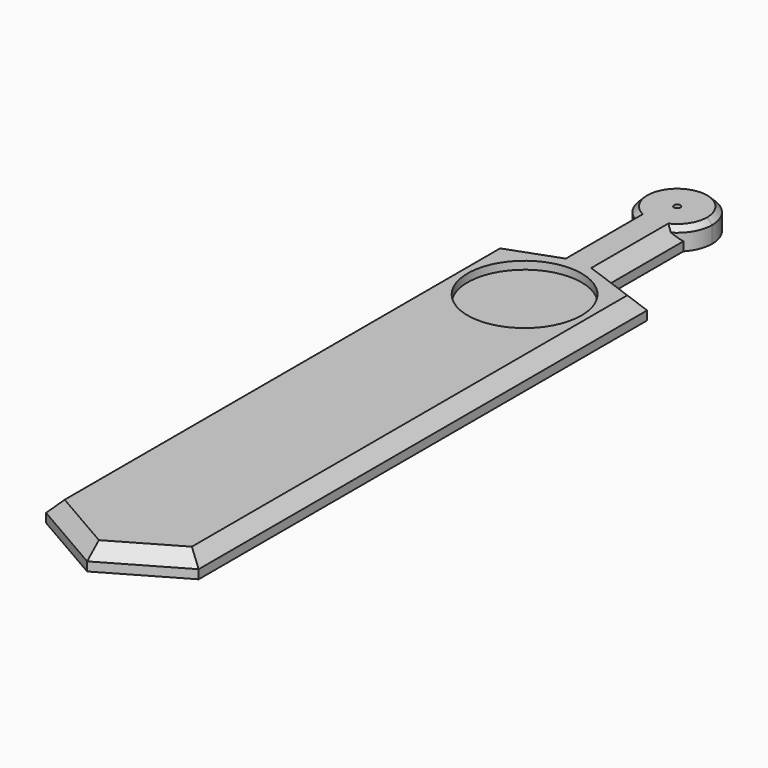
from build123d import *

# Parameters (mm, degrees)
F1_DEPTH = 21.59
F2_R     = 56.896
F3_DEPTH = 7.874
F4_R     = 5.08
F5_DEPTH = 13.717
F6_SIZE  = 12.7
F7_R     = 3.175
F8_DEPTH = 21.591
F9_SIZE  = 5.08


with BuildPart() as f1:
    # F0 (on Top) → F1 (new body)
    with BuildSketch(Plane.XY):
        with BuildLine():
            Line((25.4, -23.970724332), (25.4, 0))
            ThreePointArc((25.4, 0), (0, -25.4), (-25.4, 0))
            Line((-25.4, 0), (-25.4, -23.970724332))
            ThreePointArc((-25.4, -23.970724332), (0, -34.925), (25.4, -23.970724332))
        make_face()
        with BuildLine():
            Line((25.4, -114.3), (25.4, -23.970724332))
            ThreePointArc((25.4, -23.970724332), (0, -34.925), (-25.4, -23.970724332))
            Line((-25.4, -23.970724332), (-25.4, -114.3))
            Line((-25.4, -114.3), (-76.2, -132.7896879007))
            Line((-76.2, -132.7896879007), (-76.2, -692.6059094878))
            Line((-76.2, -692.6059094878), (0, -736.6))
            Line((0, -736.6), (76.2, -692.6059094878))
            Line((76.2, -692.6059094878), (76.2, -132.7896879007))
            Line((76.2, -132.7896879007), (25.4, -114.3))
        make_face()
        with BuildLine():
            ThreePointArc((-25.4, 0), (0, -25.4), (25.4, 0))
            ThreePointArc((25.4, 0), (0, 25.4), (-25.4, 0))
        make_face()
        with BuildLine():
            ThreePointArc((-25.4, 0), (0, 25.4), (25.4, 0))
            Line((25.4, 0), (25.4, -23.970724332))
            ThreePointArc((25.4, -23.970724332), (32.4565141767, -12.8969109674), (34.925, 0))
            ThreePointArc((34.925, 0), (-12.8969109674, 32.4565141767), (-25.4, -23.970724332))
            Line((-25.4, -23.970724332), (-25.4, 0))
        make_face()
        with BuildLine():
            Line((25.4, -114.3), (25.4, -23.970724332))
            ThreePointArc((25.4, -23.970724332), (0, -34.925), (-25.4, -23.970724332))
            Line((-25.4, -23.970724332), (-25.4, -114.3))
            Line((-25.4, -114.3), (-76.2, -132.7896879007))
            Line((-76.2, -132.7896879007), (-76.2, -692.6059094878))
            Line((-76.2, -692.6059094878), (0, -736.6))
            Line((0, -736.6), (76.2, -692.6059094878))
            Line((76.2, -692.6059094878), (76.2, -132.7896879007))
            Line((76.2, -132.7896879007), (25.4, -114.3))
        make_face()
    extrude(amount=F1_DEPTH)

    # F2 (on face) → F3 (cut)
    with BuildSketch(Plane.XY.offset(21.59)):
        with Locations((0, -190.5)):
            Circle(F2_R)
    extrude(amount=-F3_DEPTH, mode=Mode.SUBTRACT)

    # F4 (on face) → F5 (cut, through all)
    with BuildSketch(Plane.XY.offset(13.716)):
        with Locations((0, -239.776)):
            Circle(F4_R)
    extrude(amount=-F5_DEPTH, mode=Mode.SUBTRACT)

    # F6
    f6_edges = [f1.edges().sort_by_distance(p)[0] for p in [
        (-76.2, -412.697799, 21.59),
        (-38.1, -714.602955, 21.59),
        (38.1, -714.602955, 21.59),
        (76.2, -412.697799, 21.59),
        (50.8, -123.544844, 21.59),
        (-50.8, -123.544844, 21.59),
        (25.4, -69.135362, 21.59),
        (-25.4, -69.135362, 21.59),
    ]]
    chamfer(f6_edges, length=F6_SIZE)

    # F7 (on face) → F8 (cut, through all)
    with BuildSketch(Plane.XY.offset(21.59)):
        Circle(F7_R)
    extrude(amount=-F8_DEPTH, mode=Mode.SUBTRACT)

    # F9
    f9_edges = [f1.edges().sort_by_distance(p)[0] for p in [
        (0, 34.925, 21.59),
    ]]
    chamfer(f9_edges, length=F9_SIZE)


solid = f1.part
